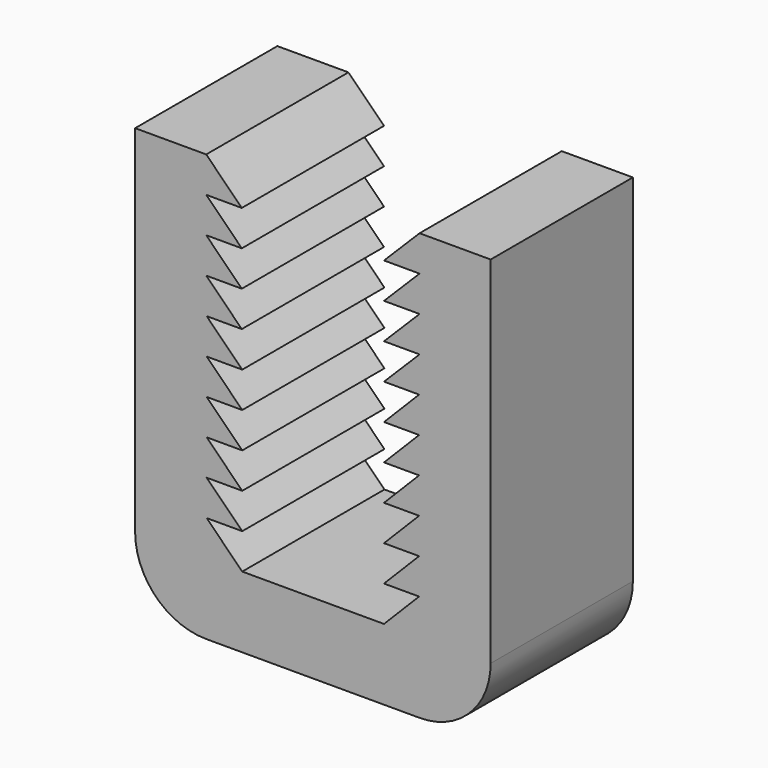
from build123d import *

# Parameters (mm, degrees)
F1_DEPTH = 10
F2_R     = 4


with BuildPart() as f1:
    # F0 (on Front) → F1 (new body)
    with BuildSketch(Plane.XZ):
        Polygon((0.5, 0), (10.5, 0), (10.5, 4), (10.5, 24), (6.5, 24), (4.5, 22), (6.5, 22), (4.5, 20), (6.5, 20), (4.5, 18), (6.5, 18), (4.5, 16), (6.474919, 16), (4.5, 14), (6.474919, 14), (4.5, 12), (6.474919, 12), (4.5, 10), (6.474919, 10), (4.5, 8), (6.474919, 8), (4.5, 6), (6.474919, 6), (4.5, 4), (-3.474919, 4), (-5.474919, 6), (-3.474919, 6), (-5.474919, 8), (-3.474919, 8), (-5.474919, 10), (-3.474919, 10), (-5.474919, 12), (-3.474919, 12), (-5.474919, 14), (-3.474919, 14), (-5.474919, 16), (-3.5, 16), (-5.5, 18), (-3.5, 18), (-5.5, 20), (-3.5, 20), (-5.5, 22), (-3.5, 22), (-5.5, 24), (-9.5, 24), (-9.5, 4), (-9.5, 0), align=None)
    extrude(amount=F1_DEPTH)

    # F2
    f2_edges = [f1.edges().sort_by_distance(p)[0] for p in [
        (-9.5, -5, 0),
        (10.5, -5, 0),
    ]]
    fillet(f2_edges, radius=F2_R)


solid = f1.part
